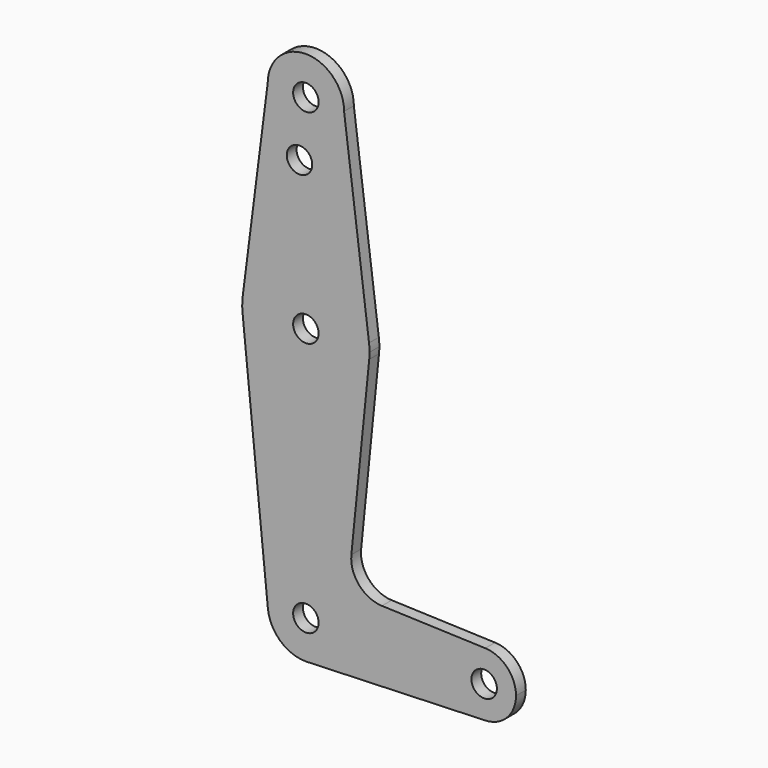
from build123d import *

# Parameters (mm, degrees)
F0_R     = 3.175
F1_DEPTH = 3.048


with BuildPart() as f1:
    # F0 (on Front) → F1 (new body)
    with BuildSketch(Plane.XZ):
        with BuildLine():
            ThreePointArc((-9.525, 114.3), (0, 104.775), (9.525, 114.3))
            ThreePointArc((9.525, 114.3), (0, 123.825), (-9.525, 114.3))
        make_face()
        with Locations((0, 114.3)):
            Circle(F0_R, mode=Mode.SUBTRACT)
        with BuildLine():
            Line((15.7474569047, 65.5082893304), (9.525, 114.3))
            ThreePointArc((9.525, 114.3), (0, 104.775), (-9.525, 114.3))
            Line((-9.525, 114.3), (-15.7474569047, 65.5082893304))
            ThreePointArc((-15.7474569047, 65.5082893304), (0, 79.375), (15.7474569047, 65.5082893304))
        make_face()
        with Locations((-1.5875, 100.0252)):
            Circle(F0_R, mode=Mode.SUBTRACT)
        with BuildLine():
            ThreePointArc((15.875, 63.5), (15.8430821396, 64.5061676396), (15.7474569047, 65.5082893304))
            ThreePointArc((15.7474569047, 65.5082893304), (0, 79.375), (-15.7474569047, 65.5082893304))
            ThreePointArc((-15.7474569047, 65.5082893304), (-15.8735876171, 63.7117573215), (-15.7954255641, 61.9125))
            ThreePointArc((-15.7954255641, 61.9125), (0, 47.625), (15.7954255641, 61.9125))
            ThreePointArc((15.7954255641, 61.9125), (15.8550939106, 62.7052534459), (15.875, 63.5))
        make_face()
        with Locations((0, 63.5)):
            Circle(F0_R, mode=Mode.SUBTRACT)
        with BuildLine():
            ThreePointArc((15.7954255641, 61.9125), (0, 47.625), (-15.7954255641, 61.9125))
            Line((-15.7954255641, 61.9125), (-9.4772553384, -0.9525))
            ThreePointArc((-9.4772553384, -0.9525), (-0.4768479324, 9.5130563464), (9.525, 0))
            ThreePointArc((9.525, 0), (6.9705567315, -6.4912990883), (0.6773435479, -9.500885786))
            Line((0.6773435479, -9.500885786), (44.7324052746, -7.9324746146))
            ThreePointArc((44.7324052746, -7.9324746146), (36.5125, 0), (44.7324052746, 7.9324746146))
            Line((44.7324052746, 7.9324746146), (18.968327868, 8.8497055806))
            ThreePointArc((18.968327868, 8.8497055806), (13.2612039825, 11.5674628959), (11.3408358685, 17.5898921545))
            Line((11.3408358685, 17.5898921545), (15.7954255641, 61.9125))
        make_face()
        with BuildLine():
            ThreePointArc((9.525, 0), (-0.4768479324, 9.5130563464), (-9.4772553384, -0.9525))
            ThreePointArc((-9.4772553384, -0.9525), (-6.3895642457, -7.063929059), (0, -9.525))
            Line((0, -9.525), (0.6773435479, -9.500885786))
            ThreePointArc((0.6773435479, -9.500885786), (6.9705567315, -6.4912990883), (9.525, 0))
        make_face()
        Circle(F0_R, mode=Mode.SUBTRACT)
        with BuildLine():
            Line((0.6773435479, -9.500885786), (0, -9.525))
            ThreePointArc((0, -9.525), (0.3388863295, -9.5189695375), (0.6773435479, -9.500885786))
        make_face()
        with BuildLine():
            ThreePointArc((52.3875, 0), (50.1616327839, 5.5119104847), (44.7324052746, 7.9324746146))
            ThreePointArc((44.7324052746, 7.9324746146), (36.5125, 0), (44.7324052746, -7.9324746146))
            ThreePointArc((44.7324052746, -7.9324746146), (50.1616327839, -5.5119104847), (52.3875, 0))
        make_face()
        with Locations((44.45, 0)):
            Circle(F0_R, mode=Mode.SUBTRACT)
    extrude(amount=F1_DEPTH)


solid = f1.part
